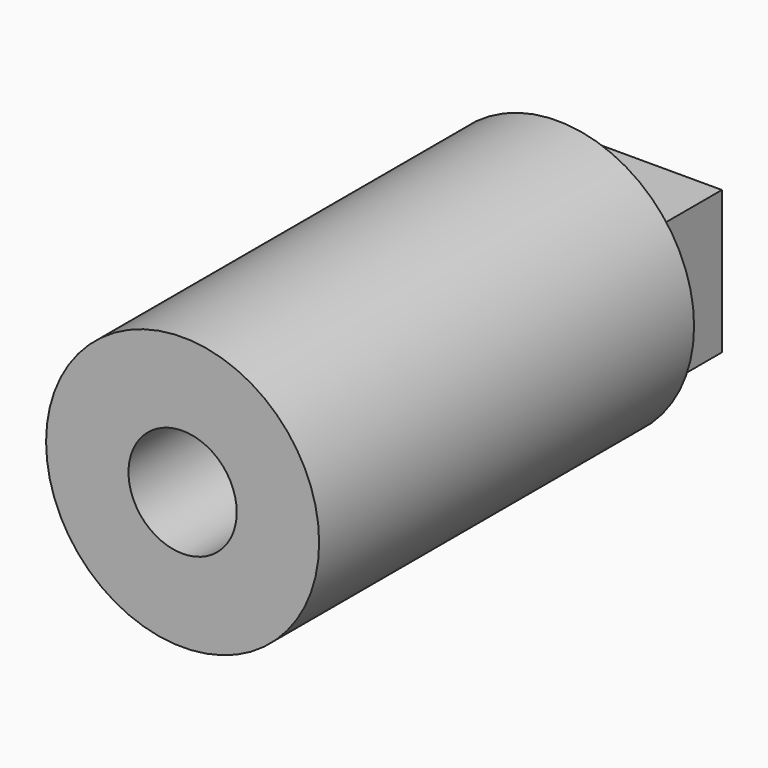
from build123d import *

# Parameters (mm, degrees)
F2_W     = 17.4498
F2_H     = 13.087348
F4_DEPTH = 7.8994
F3_R     = 12.4968
F5_DEPTH = 42.9006
F1_R     = 4.953
F6_DEPTH = 50.8


with BuildPart() as f4:
    # F2 (on Front) → F4 (new body)
    with BuildSketch(Plane.XZ):
        Rectangle(F2_W, F2_H)
    extrude(amount=F4_DEPTH)

    # F3 (on offset) → F5 (join)
    with BuildSketch(Plane.XZ.offset(7.8994)):
        Circle(F3_R)
    extrude(amount=F5_DEPTH)

    # F1 (on Front) → F6 (cut)
    with BuildSketch(Plane.XZ):
        Circle(F1_R)
    extrude(amount=F6_DEPTH, mode=Mode.SUBTRACT)


solid = f4.part
